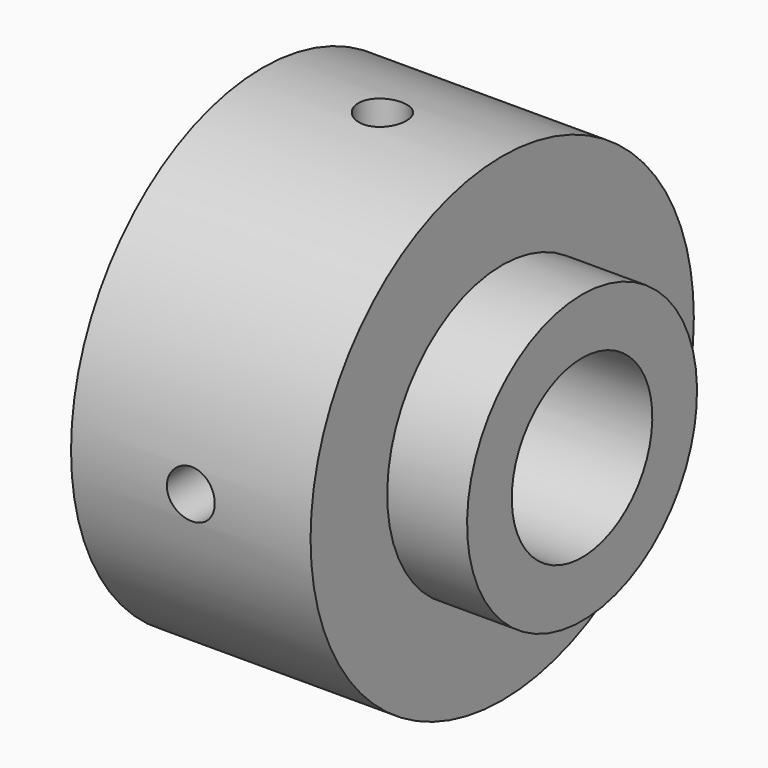
from build123d import *

# Parameters (mm, degrees)
F3_R          = 76.2
F4_DEPTH      = 2540
F5_R          = 76.2
F6_DEPTH      = 762.001
F6_DEPTH_BACK = 922.02


with BuildPart() as f1:
    # F0 (on Front) → F1 (revolve)
    with BuildSketch(Plane.XZ):
        Polygon((762, 762), (0, 762), (0, 279.4), (1016, 279.4), (1016, 457.2), (762, 457.2), align=None)
    revolve(axis=Axis((606.499875, 0, 0), (1, 0, 0)))

    # F3 (on offset) → F4 (cut)
    with BuildSketch(Plane.XY.offset(1524)):
        with Locations((381, 0)):
            Circle(F3_R)
    extrude(amount=-F4_DEPTH, mode=Mode.SUBTRACT)

    # F5 (on Front) → F6 (cut, two sides)
    with BuildSketch(Plane.XZ) as f6_sk:
        with Locations((381, 0)):
            Circle(F5_R)
    extrude(amount=F6_DEPTH, mode=Mode.SUBTRACT)
    extrude(f6_sk.sketch, amount=-F6_DEPTH_BACK, mode=Mode.SUBTRACT)


solid = f1.part
